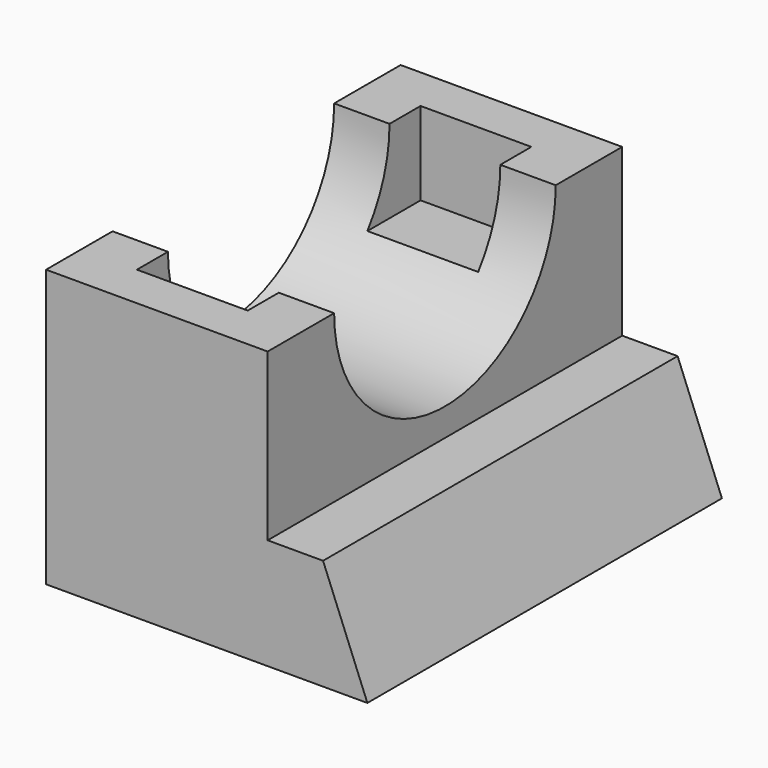
from build123d import *

# Parameters (mm, degrees)
F1_DEPTH = 40
F3_DEPTH = 80
F5_W     = 20
F5_H     = 15
F6_DEPTH = 64


with BuildPart() as f1:
    # F0 (on Right) → F1 (new body)
    with BuildSketch(Plane.YZ):
        with BuildLine():
            Line((-25.4482409358, 21.236214526), (-40.4482409358, 21.236214526))
            Line((-40.4482409358, 21.236214526), (-40.4482409358, -8.763785474))
            Line((-40.4482409358, -8.763785474), (39.5517590642, -8.763785474))
            Line((39.5517590642, -8.763785474), (39.5517590642, 21.236214526))
            Line((39.5517590642, 21.236214526), (24.5517590642, 21.236214526))
            ThreePointArc((24.5517590642, 21.236214526), (-0.4482409358, -3.763785474), (-25.4482409358, 21.236214526))
        make_face()
    extrude(amount=-F1_DEPTH)

    # F2 (on face) → F3 (join, through all)
    with BuildSketch(Plane.XZ.offset(40.4482409358)):
        Polygon((10, -8.763785474), (-40, -8.763785474), (-40, -28.763785474), (18, -28.763785474), align=None)
    extrude(amount=-F3_DEPTH)

    # F5 (on offset) → F6 (cut)
    with BuildSketch(Plane(origin=(0, 31.5517590642, 0), x_dir=(-1, 0, 0), z_dir=(0, 1, 0))):
        with Locations((20, 13.736214526)):
            Rectangle(F5_W, F5_H)
    extrude(amount=-F6_DEPTH, mode=Mode.SUBTRACT)


solid = f1.part
